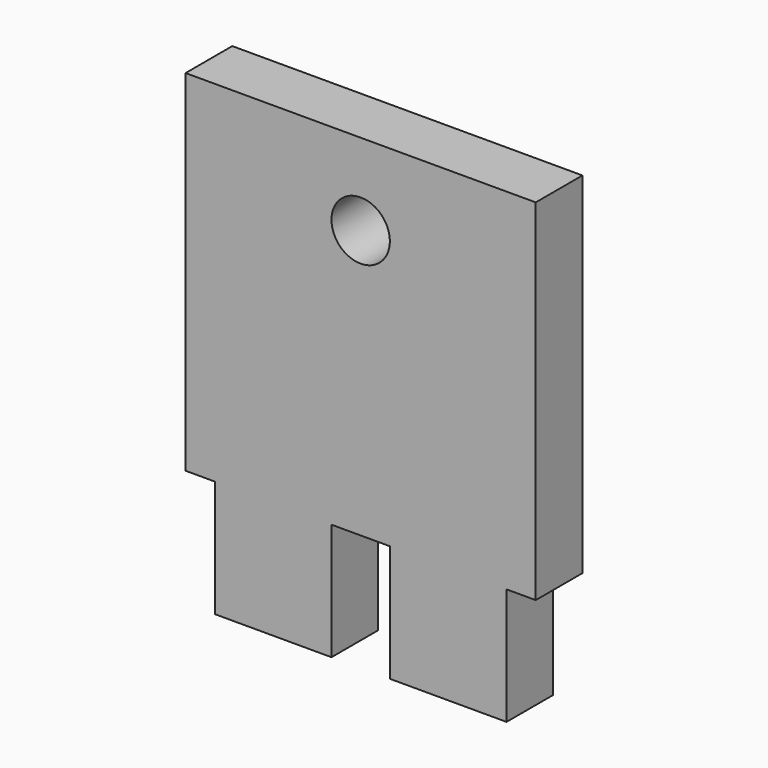
from build123d import *

# Parameters (mm, degrees)
F0_W     = 38.1
F0_H     = 50.8
F1_DEPTH = 6.35
F2_R     = 3.175
F3_DEPTH = 6.351
F4_W     = 3.175
F4_H     = 12.7
F5_DEPTH = 6.351
F6_W     = 6.35
F6_H     = 12.7
F7_DEPTH = 6.351


with BuildPart() as f1:
    # F0 (on Front) → F1 (new body)
    with BuildSketch(Plane.XZ):
        with Locations((-1.309197, 31.935506)):
            Rectangle(F0_W, F0_H)
    extrude(amount=F1_DEPTH)

    # F2 (on face) → F3 (cut, through all)
    with BuildSketch(Plane(origin=(0, 0, 0), x_dir=(-1, 0, 0), z_dir=(0, 1, 0))):
        with Locations((1.309197, 48.445506)):
            Circle(F2_R)
    extrude(amount=-F3_DEPTH, mode=Mode.SUBTRACT)

    # F4 (on face) → F5 (cut, through all)
    with BuildSketch(Plane.XZ.offset(6.35)):
        with Locations((-18.771697, 12.885506)):
            Rectangle(F4_W, F4_H)
        with Locations((16.153303, 12.885506)):
            Rectangle(F4_W, F4_H)
    extrude(amount=-F5_DEPTH, mode=Mode.SUBTRACT)

    # F6 (on face) → F7 (cut, through all)
    with BuildSketch(Plane.XZ.offset(6.35)):
        with Locations((-1.309197, 12.885506)):
            Rectangle(F6_W, F6_H)
    extrude(amount=-F7_DEPTH, mode=Mode.SUBTRACT)


solid = f1.part
